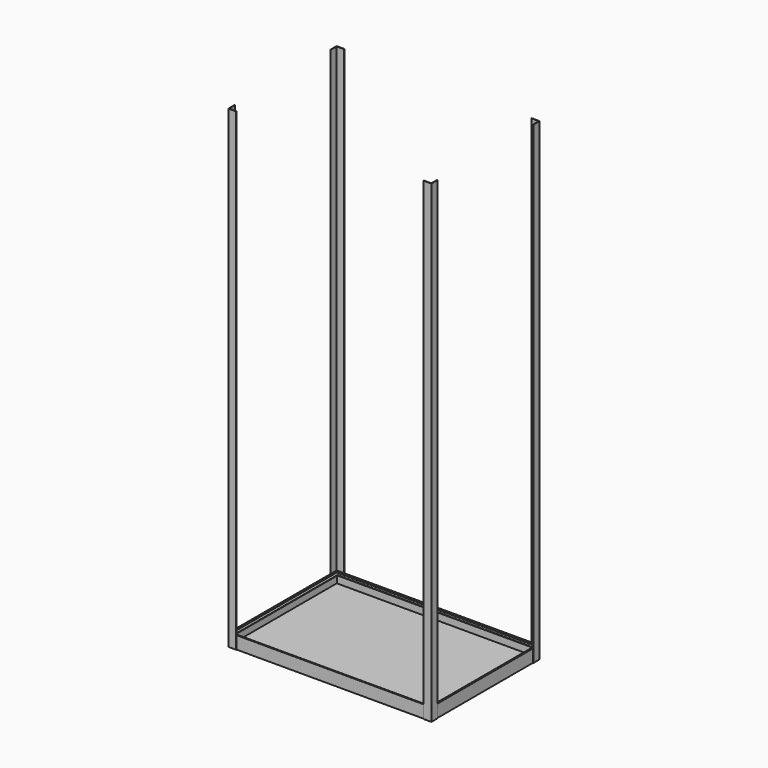
from build123d import *

# Parameters (mm, degrees)
F1_W       = 892
F1_H       = 592
F2_DEPTH   = 7
F3_DEPTH   = 2100
F5_DEPTH   = 448
F6_SIZE2   = 13
F6_SIZE    = 13
F6_2_SIZE2 = 13
F6_2_SIZE  = 13
F8_DEPTH   = 298
F9_SIZE2   = 13
F9_SIZE    = 13
F9_2_SIZE2 = 13
F9_2_SIZE  = 13


with BuildPart() as f2:
    # F1 (on Top) → F2 (new body)
    with BuildSketch(Plane.XY):
        Rectangle(F1_W, F1_H)
    extrude(amount=F2_DEPTH)


with BuildPart() as f3:
    # F0 (on Top) → F3 (new body)
    with BuildSketch(Plane.XY):
        Polygon((-450, -265), (-450, -300), (-415, -300), (-415, -298), (-448, -298), (-448, -265), align=None)
    extrude(amount=F3_DEPTH)


with BuildPart() as f3b:
    # F0 (on Top) → F3, piece 2 (new body)
    with BuildSketch(Plane.XY):
        Polygon((450, -300), (450, -265), (448, -265), (448, -298), (415, -298), (415, -300), align=None)
    extrude(amount=F3_DEPTH)


with BuildPart() as f3c:
    # F0 (on Top) → F3, piece 3 (new body)
    with BuildSketch(Plane.XY):
        Polygon((448, 265), (450, 265), (450, 300), (415, 300), (415, 298), (448, 298), align=None)
    extrude(amount=F3_DEPTH)


with BuildPart() as f3d:
    # F0 (on Top) → F3, piece 4 (new body)
    with BuildSketch(Plane.XY):
        Polygon((-448, 298), (-415, 298), (-415, 300), (-450, 300), (-450, 265), (-448, 265), align=None)
    extrude(amount=F3_DEPTH)


with BuildPart() as f5:
    # F4 (on Right) → F5 (new body, symmetric)
    with BuildSketch(Plane.YZ):
        Polygon((-298, 56), (-298, 0), (-283, 0), (-283, 2), (-296, 2), (-296, 47), (-283, 47), (-283, 49), (-296, 49), (-296, 56), align=None)
    extrude(amount=F5_DEPTH, both=True)

    # F6#2
    f6_2_edges = [f5.edges().sort_by_distance(p)[0] for p in [
        (448, -283, 48),
        (448, -283, 1),
        (-448, -283, 48),
        (-448, -283, 1),
    ]]
    chamfer(f6_2_edges, length=F6_2_SIZE, length2=F6_2_SIZE2)


with BuildPart() as f5b:
    # F4 (on Right) → F5, piece 2 (new body, symmetric)
    with BuildSketch(Plane.YZ):
        Polygon((298, 56), (296, 56), (296, 49), (283, 49), (283, 47), (296, 47), (296, 2), (283, 2), (283, 0), (298, 0), align=None)
    extrude(amount=F5_DEPTH, both=True)

    # F6
    f6_edges = [f5b.edges().sort_by_distance(p)[0] for p in [
        (-448, 283, 48),
        (-448, 283, 1),
        (448, 283, 48),
        (448, 283, 1),
    ]]
    chamfer(f6_edges, length=F6_SIZE, length2=F6_SIZE2)


with BuildPart() as f8:
    # F7 (on Front) → F8 (new body, symmetric)
    with BuildSketch(Plane.XZ):
        Polygon((-448, 56), (-448, 0), (-433, 0), (-433, 2), (-446, 2), (-446, 47), (-433, 47), (-433, 49), (-446, 49), (-446, 56), align=None)
    extrude(amount=F8_DEPTH, both=True)

    # F9#2
    f9_2_edges = [f8.edges().sort_by_distance(p)[0] for p in [
        (-433, -298, 48),
        (-433, -298, 1),
        (-433, 298, 48),
        (-433, 298, 1),
    ]]
    chamfer(f9_2_edges, length=F9_2_SIZE, length2=F9_2_SIZE2)


with BuildPart() as f8b:
    # F7 (on Front) → F8, piece 2 (new body, symmetric)
    with BuildSketch(Plane.XZ):
        Polygon((446, 2), (433, 2), (433, 0), (448, 0), (448, 56), (446, 56), (446, 49), (433, 49), (433, 47), (446, 47), align=None)
    extrude(amount=F8_DEPTH, both=True)

    # F9
    f9_edges = [f8b.edges().sort_by_distance(p)[0] for p in [
        (433, 298, 48),
        (433, 298, 1),
        (433, -298, 1),
        (433, -298, 48),
    ]]
    chamfer(f9_edges, length=F9_SIZE, length2=F9_SIZE2)


solid = Compound([f2.part, f3.part, f3b.part, f3c.part, f3d.part, f5.part, f5b.part, f8.part, f8b.part])
